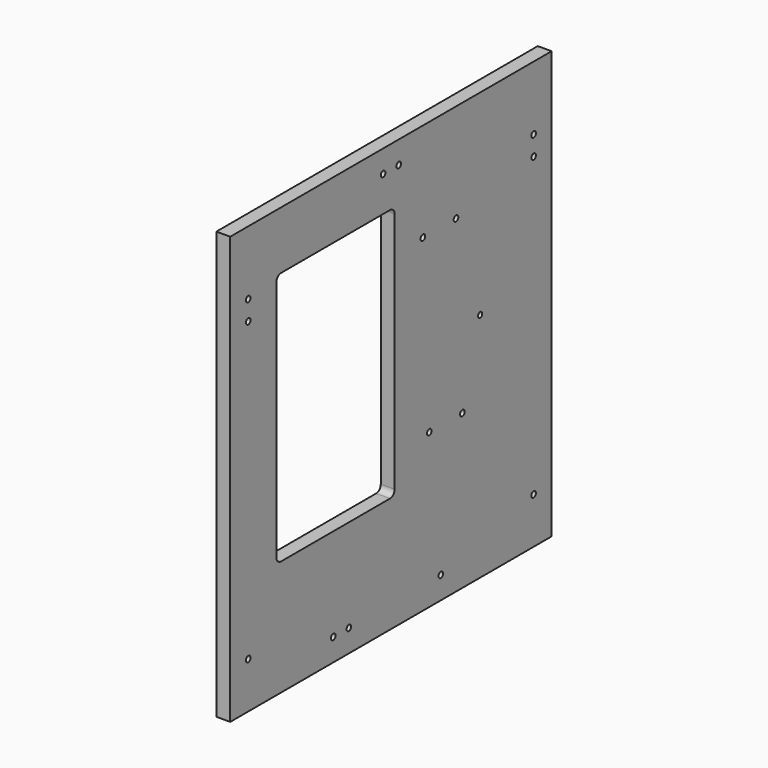
from build123d import *

# Parameters (mm, degrees)
SKETCH_W        = 348
SKETCH_H        = 370
PAD_DEPTH       = 12
POCKET_DEPTH    = 12.001
SKETCH002_R     = 2.5
POCKET001_DEPTH = 12.001
SKETCH003_R     = 2.5
SKETCH003_R_2   = 2.25
POCKET002_DEPTH = 12.001


with BuildPart() as part:
    # Sketch → Pad (new body)
    with BuildSketch(Plane.YZ):
        with Locations((0, 185)):
            Rectangle(SKETCH_W, SKETCH_H)
    extrude(amount=PAD_DEPTH)

    # Sketch001 → Pocket (cut, through all)
    with BuildSketch(Plane.YZ.offset(12)):
        with BuildLine():
            Line((-124, 314.999997), (-124, 105.000005))
            ThreePointArc((-124, 105.000005), (-122.535546, 101.464478), (-119.000029, 100))
            Line((-119.000029, 100), (-1.000005, 100))
            ThreePointArc((-1.000005, 100), (2.535534, 101.464466), (4, 105.000005))
            Line((4, 105.000005), (4, 314.999997))
            ThreePointArc((4, 314.999997), (2.535534, 318.535534), (-1.000004, 320))
            Line((-119.000028, 320), (-1.000004, 320))
            ThreePointArc((-119.000028, 320), (-122.535545, 318.535523), (-124, 314.999997))
        make_face()
    extrude(amount=-POCKET_DEPTH, mode=Mode.SUBTRACT)

    # Sketch002 → Pocket001 (cut, through all)
    with BuildSketch(Plane.YZ.offset(12)):
        with Locations((-154.5, 314.475)):
            Circle(SKETCH002_R)
        with Locations((-154.5, 40)):
            Circle(SKETCH002_R)
        with Locations((-62.475, 19.5)):
            Circle(SKETCH002_R)
        with Locations((-8.475, 350.5)):
            Circle(SKETCH002_R)
        with Locations((-154.5, 297.525)):
            Circle(SKETCH002_R)
        with Locations((-45.525, 19.5)):
            Circle(SKETCH002_R)
        with Locations((154.5, 314.475)):
            Circle(SKETCH002_R)
        with Locations((154.5, 297.525)):
            Circle(SKETCH002_R)
        with Locations((154.5, 40)):
            Circle(SKETCH002_R)
        with Locations((54, 19.5)):
            Circle(SKETCH002_R)
        with Locations((8.475, 350.5)):
            Circle(SKETCH002_R)
    extrude(amount=-POCKET001_DEPTH, mode=Mode.SUBTRACT)

    # Sketch003 → Pocket002 (cut, through all)
    with BuildSketch(Plane.YZ.offset(12)):
        with Locations((41.521, 133.35)):
            Circle(SKETCH003_R)
        with Locations((77.38, 133.35)):
            Circle(SKETCH003_R)
        with Locations((34.621, 284.55)):
            Circle(SKETCH003_R)
        with Locations((70.48, 284.55)):
            Circle(SKETCH003_R)
        with Locations((96.6, 200.371)):
            Circle(SKETCH003_R_2)
    extrude(amount=-POCKET002_DEPTH, mode=Mode.SUBTRACT)


solid = part.part
